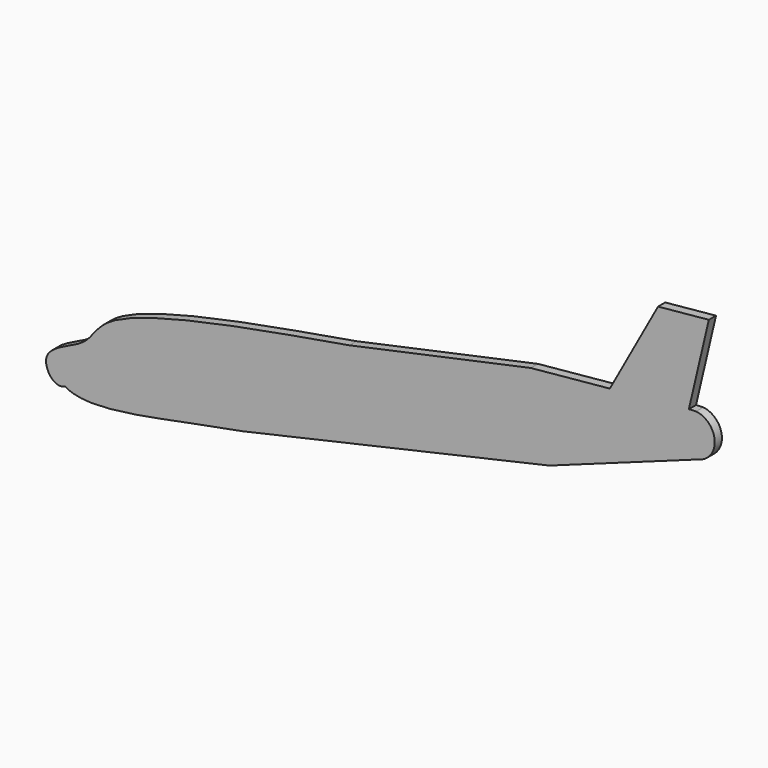
from build123d import *

# Parameters (mm, degrees)
F1_DEPTH = 3.81


with BuildPart() as f1:
    # F0 (on Front) → F1 (new body)
    with BuildSketch(Plane.XZ):
        with BuildLine():
            Line((50.7934687688, 22.9158047023), (-26.3345242069, 6.3188100777))
            add(Edge.make_bspline(
                [(-26.3345242069, 6.3188100777), (-42.4062460127, 3.2612491679), (-133.4488933995, -10.0760801672), (-135.3752222295, -30.8321574827), (-161.3500317179, -36.6452750346), (-151.9622288904, -50.6477397554), (-147.165397401, -48.4012696086)],
                knots=[0, 0, 0, 0, 0.4560944827, 0.6522283805, 0.8479452536, 1, 1, 1, 1], degree=3))
            add(Edge.make_bspline(
                [(-71.7869753234, -40.6265040005), (-106.5368637632, -46.6824494024), (-136.227817418, -55.2358312302), (-147.165397401, -48.4012696086)],
                knots=[0, 0, 0, 0, 75.7783181073, 75.7783181073, 75.7783181073, 75.7783181073], degree=3))
            Line((-71.7869753234, -40.6265040005), (58.6381279451, -11.0631472614))
            Line((58.6381279451, -11.0631472614), (122.0448666324, 11.8501812002))
            ThreePointArc((122.0448666324, 11.8501812002), (128.9965099734, 21.0796037217), (121.1106770906, 29.5247931788))
            Line((121.1106770906, 29.5247931788), (118.0022910514, 29.3604997994))
            Line((118.0022910514, 29.3604997994), (126.4947656791, 65.5761686612))
            Line((126.4947656791, 65.5761686612), (104.8938632011, 63.5048449039))
            Line((104.8938632011, 63.5048449039), (84.3978799101, 26.1381522509))
            Line((84.3978799101, 26.1381522509), (50.7934687688, 22.9158047023))
        make_face()
    extrude(amount=F1_DEPTH)


solid = f1.part
